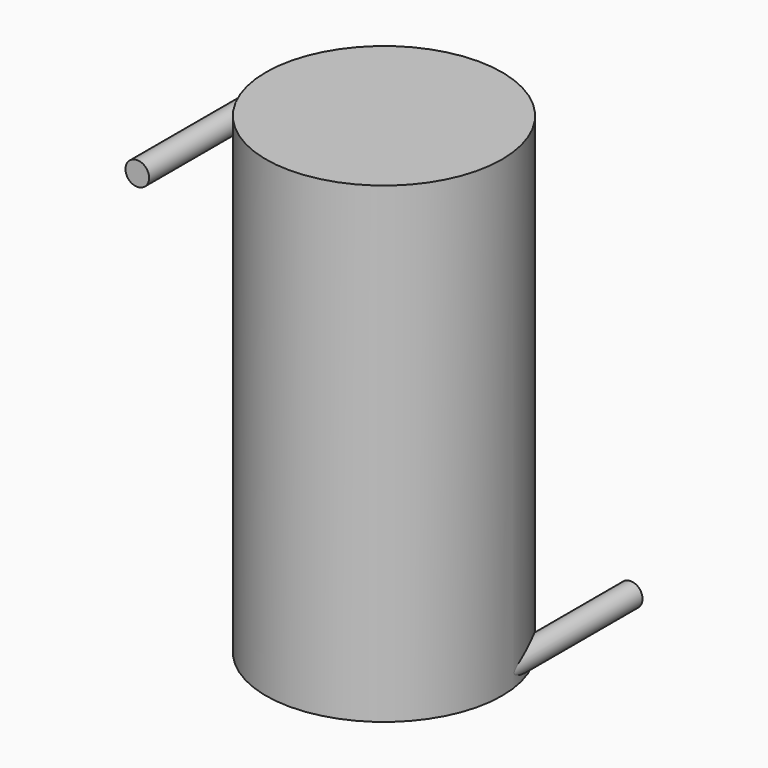
from build123d import *

# Parameters (mm, degrees)
F1_R     = 100
F2_DEPTH = 400
F3_R     = 10
F4_DEPTH = 150
F5_R     = 10
F6_DEPTH = 150


with BuildPart() as f2:
    # F1 (on offset) → F2 (new body)
    with BuildSketch(Plane.XY.offset(200)):
        Circle(F1_R)
    extrude(amount=-F2_DEPTH)

    # F3 (on Front) → F4 (join)
    with BuildSketch(Plane.XZ):
        with Locations((-89, 189)):
            Circle(F3_R)
    extrude(amount=F4_DEPTH)

    # F5 (on Front) → F6 (join)
    with BuildSketch(Plane.XZ):
        with Locations((89, -189)):
            Circle(F5_R)
    extrude(amount=-F6_DEPTH)


solid = f2.part
